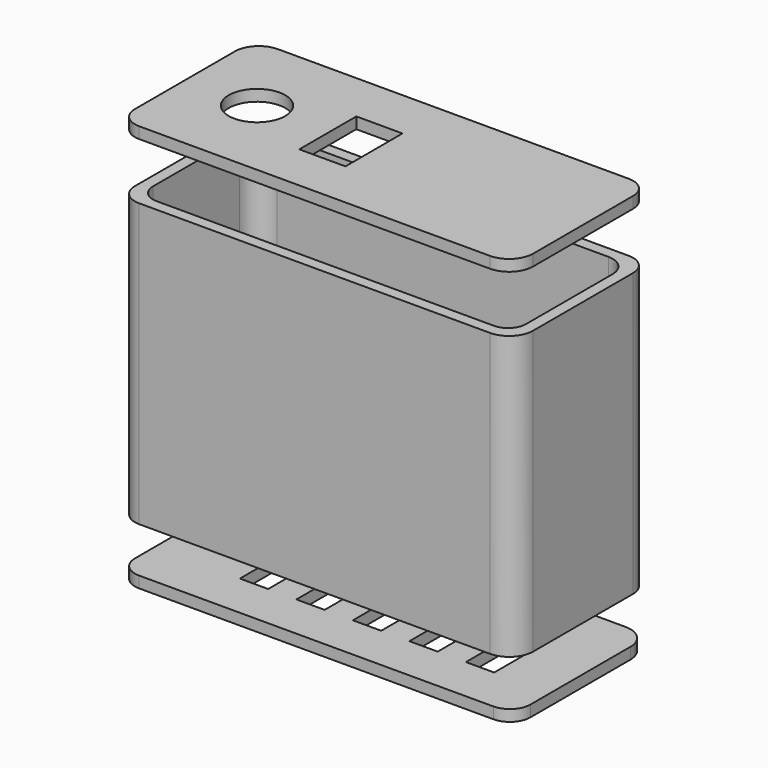
from build123d import *

# Parameters (mm, degrees)
PAD_DEPTH           = 50
POCKET_DEPTH        = 50.001
PAD001_DEPTH        = 2
SKETCH003_R         = 2.55
POCKET001_DEPTH     = 2.001
SKETCH004_W         = 5
SKETCH004_H         = 14
POCKET002_DEPTH     = 2.001
LINEARPATTERN_COUNT = 5
LINEARPATTERN_PITCH = 10
PAD002_DEPTH        = 2
SKETCH006_R         = 5
SKETCH006_W         = 8.166152
SKETCH006_H         = 12.614875
POCKET003_DEPTH     = 2.001


with BuildPart() as body:
    # Sketch → Pad (new body)
    with BuildSketch(Plane.XY):
        with BuildLine():
            Line((-30.757359, 15), (31.357359, 15))
            ThreePointArc((35, 11.357359), (33.933095, 13.933095), (31.357359, 15))
            Line((35, 11.357359), (35, -10.757359))
            ThreePointArc((30.757359, -15), (33.757359, -13.757359), (35, -10.757359))
            Line((30.757359, -15), (-31.357359, -15))
            ThreePointArc((-35, -11.357359), (-33.933095, -13.933095), (-31.357359, -15))
            Line((-35, -11.357359), (-35, 10.757359))
            ThreePointArc((-30.757359, 15), (-33.757359, 13.757359), (-35, 10.757359))
        make_face()
    extrude(amount=PAD_DEPTH)

    # Sketch001 (on Face10 of Pad) → Pocket (cut, through all)
    with BuildSketch(Plane.XY.offset(50)):
        with BuildLine():
            Line((-29.323045, 13), (29.323045, 13))
            ThreePointArc((33, 9.323045), (31.923045, 11.923045), (29.323045, 13))
            Line((33, 9.323045), (33, -9.843045))
            ThreePointArc((29.843045, -13), (32.075349, -12.075349), (33, -9.843045))
            Line((29.843045, -13), (-29.843045, -13))
            ThreePointArc((-33, -9.843045), (-32.075349, -12.075349), (-29.843045, -13))
            Line((-33, -9.843045), (-33, 9.323045))
            ThreePointArc((-29.323045, 13), (-31.923045, 11.923045), (-33, 9.323045))
        make_face()
    extrude(amount=-POCKET_DEPTH, mode=Mode.SUBTRACT)


with BuildPart() as body_1:
    # Body placement: moved
    add(body.part.moved(Location((0, 0, 10))))


with BuildPart() as body001:
    # Sketch002 → Pad001 (new body)
    with BuildSketch(Plane.XY):
        with BuildLine():
            Line((-30.757359, 15), (30.757359, 15))
            ThreePointArc((35, 10.757359), (33.757359, 13.757359), (30.757359, 15))
            Line((35, 10.757359), (35, -11.357359))
            ThreePointArc((31.357359, -15), (33.933095, -13.933095), (35, -11.357359))
            Line((31.357359, -15), (-31.357359, -15))
            ThreePointArc((-35, -11.357359), (-33.933095, -13.933095), (-31.357359, -15))
            Line((-35, -11.357359), (-35, 10.757359))
            ThreePointArc((-30.757359, 15), (-33.757359, 13.757359), (-35, 10.757359))
        make_face()
    extrude(amount=PAD001_DEPTH)

    # Sketch003 (on Face10 of Pad001) → Pocket001 (cut, through all)
    with BuildSketch(Plane.XY.offset(2)):
        with Locations((-27.45, 0)):
            Circle(SKETCH003_R)
    extrude(amount=-POCKET001_DEPTH, mode=Mode.SUBTRACT)

    # Sketch004 (on Face5 of Pocket001) → Pocket002 (cut, through all)
    with BuildSketch(Plane.XY.offset(2)):
        with Locations((-17.4, 0)):
            Rectangle(SKETCH004_W, SKETCH004_H)
    pocket002 = extrude(amount=-POCKET002_DEPTH, mode=Mode.SUBTRACT)

    # LinearPattern: Pocket002 ×5
    with Locations(*[(i * LINEARPATTERN_PITCH, 0, 0) for i in range(1, LINEARPATTERN_COUNT)]):
        add(pocket002, mode=Mode.SUBTRACT)


with BuildPart() as body002:
    # Sketch005 → Pad002 (new body)
    with BuildSketch(Plane.XY):
        with BuildLine():
            Line((-30.757359, 15), (31.357359, 15))
            ThreePointArc((35, 11.357359), (33.933095, 13.933095), (31.357359, 15))
            Line((35, 11.357359), (35, -10.757359))
            ThreePointArc((30.757359, -15), (33.757359, -13.757359), (35, -10.757359))
            Line((30.757359, -15), (-31.357359, -15))
            ThreePointArc((-35, -11.357359), (-33.933095, -13.933095), (-31.357359, -15))
            Line((-35, -11.357359), (-35, 10.757359))
            ThreePointArc((-30.757359, 15), (-33.757359, 13.757359), (-35, 10.757359))
        make_face()
    extrude(amount=PAD002_DEPTH)

    # Sketch006 (on Face10 of Pad002) → Pocket003 (cut, through all)
    with BuildSketch(Plane.XY.offset(2)):
        with Locations((-22.474173, 0)):
            Circle(SKETCH006_R)
        with Locations((-5.654342, -0.259781)):
            Rectangle(SKETCH006_W, SKETCH006_H)
    extrude(amount=-POCKET003_DEPTH, mode=Mode.SUBTRACT)


with BuildPart() as body002_1:
    # Body002 placement: moved
    add(body002.part.moved(Location((0, 0, 70))))


solid = Compound([body_1.part, body001.part, body002_1.part])
